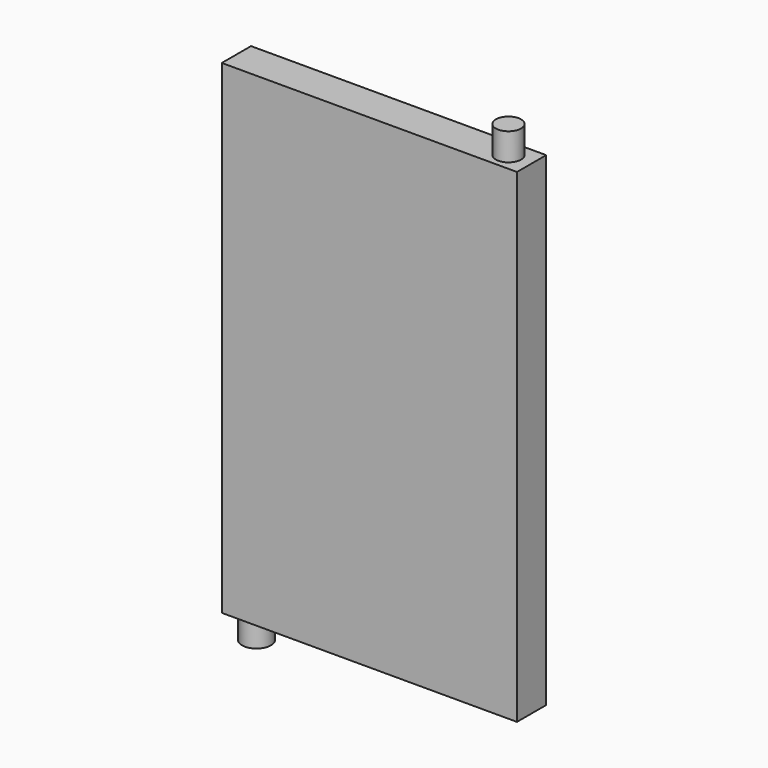
from build123d import *

# Parameters (mm, degrees)
F0_W     = 410.845
F0_H     = 673.883108
F1_DEPTH = 50.8
F2_R     = 20.097435
F3_DEPTH = 33.782
F4_R     = 17.468499
F5_DEPTH = 38.1


with BuildPart() as f1:
    # F0 (on Front) → F1 (new body)
    with BuildSketch(Plane.XZ):
        Rectangle(F0_W, F0_H)
    extrude(amount=F1_DEPTH)

    # F2 (on face) → F3 (join)
    with BuildSketch(Plane(origin=(0, 0, -336.941554), x_dir=(1, 0, 0), z_dir=(0, 0, -1))):
        with Locations((-176.623374, 26.477363)):
            Circle(F2_R)
    extrude(amount=F3_DEPTH)

    # F4 (on face) → F5 (join)
    with BuildSketch(Plane.XY.offset(336.941554)):
        with Locations((173.230782, -25.4)):
            Circle(F4_R)
    extrude(amount=F5_DEPTH)


solid = f1.part
